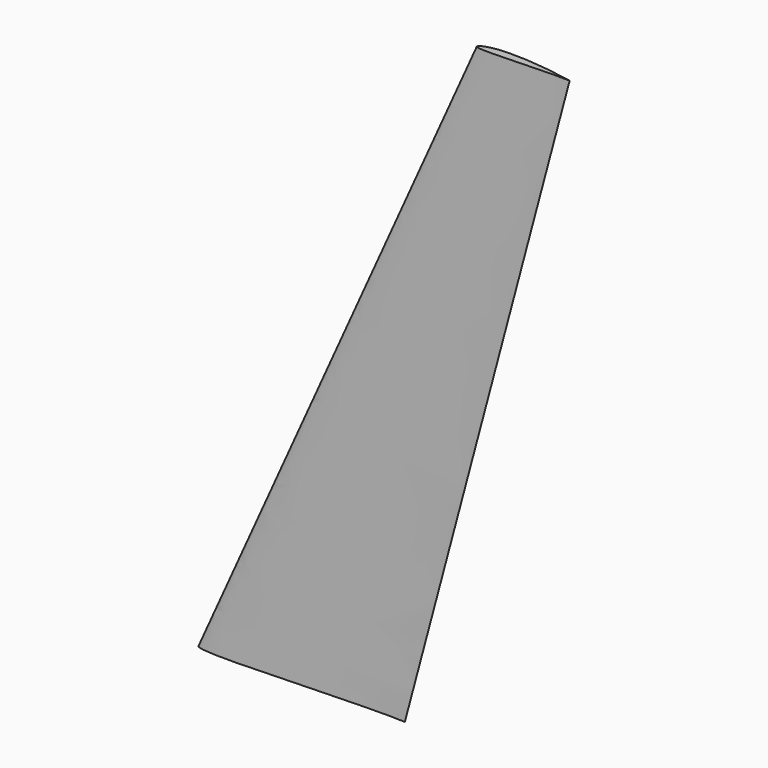
from build123d import *


with BuildPart() as part:
    # Sketch → AdditiveLoft section 0
    with BuildSketch(Plane.XY):
        with BuildLine():
            add(Edge.make_bspline(
                [(200, 0), (199.781214, 0.027081), (198.917946, 0.137734), (197.012547, 0.412206), (193.925274, 0.927958), (189.754376, 1.674878), (184.609962, 2.643631), (178.596476, 3.783489), (171.8068, 5.03161), (164.327059, 6.333634), (156.227593, 7.624717), (147.581186, 8.865302), (138.472671, 10.05632), (128.99884, 11.173364), (119.264561, 12.1967), (109.375682, 13.102329), (99.434946, 13.860057), (89.546564, 14.449104), (79.808449, 14.85141), (70.314939, 15.042807), (61.15414, 15.017291), (52.40922, 14.764509), (44.157229, 14.284557), (36.46888, 13.577278), (29.408634, 12.655396), (23.031454, 11.529549), (17.38147, 10.215811), (12.494328, 8.736793), (8.387963, 7.130169), (5.094837, 5.441482), (2.570683, 3.749252), (0.943763, 2.085824), (-0.111978, 0.606235), (0.141152, -1.064087), (1.951496, -1.849117), (4.357479, -2.595753), (7.934903, -3.166578), (12.465488, -3.618054), (17.999378, -3.908956), (24.460524, -4.062286), (31.799759, -4.081637), (39.941378, -3.984621), (48.801522, -3.787316), (58.282046, -3.510075), (68.27651, -3.171814), (78.668416, -2.792417), (89.33685, -2.379359), (100.157399, -1.952307), (111.004539, -1.520138), (121.753092, -1.098941), (132.276851, -0.6981), (142.452767, -0.335293), (152.155634, -0.024495), (161.262731, 0.21331), (169.644956, 0.370874), (177.201849, 0.450658), (183.766639, 0.451829), (189.407059, 0.379366), (193.574425, 0.302922), (197.351604, 0.127566), (198.284426, 0.130191), (200.218119, -0.026999), (200, 0)],
                knots=[0, 0, 0, 0, 0.661356, 2.610991, 5.774696, 10.050979, 15.322615, 21.479084, 28.41269, 36.032747, 44.255206, 53.016832, 62.236733, 71.812692, 81.634428, 91.599698, 101.60246, 111.541868, 121.315974, 130.83983, 140.025886, 148.795741, 157.082241, 164.819627, 171.953299, 178.436669, 184.23961, 189.344354, 193.744596, 197.442658, 200.446618, 202.777413, 204.476366, 205.651645, 207.276399, 209.859706, 213.439225, 218.011652, 223.560544, 230.04267, 237.404731, 245.575226, 254.469299, 263.991242, 274.028867, 284.469785, 295.187706, 306.058135, 316.956701, 327.75495, 338.328519, 348.55093, 358.301796, 367.452839, 375.878284, 383.462665, 390.092666, 395.669056, 400.106323, 403.334629, 405.299175, 405.958515, 405.958515, 405.958515, 405.958515], degree=3))
        make_face()
    # Sketch001 → AdditiveLoft section 1
    with BuildSketch(Plane(origin=(270, 0, 600), x_dir=(1, 0, 0), z_dir=(0, 0, 1))):
        with BuildLine():
            add(Edge.make_bspline(
                [(90, 0), (89.901546, 0.012187), (89.513076, 0.06198), (88.655646, 0.185492), (87.266373, 0.417581), (85.389469, 0.753695), (83.074483, 1.189634), (80.368414, 1.70257), (77.31306, 2.264224), (73.947177, 2.850135), (70.302417, 3.431122), (66.411534, 3.989386), (62.312702, 4.525344), (58.049478, 5.028014), (53.669053, 5.488515), (49.219057, 5.896048), (44.745726, 6.237026), (40.295954, 6.502097), (35.913802, 6.683135), (31.641722, 6.769263), (27.519363, 6.757781), (23.584149, 6.644029), (19.870753, 6.428051), (16.410996, 6.109775), (13.233885, 5.694928), (10.364154, 5.188297), (7.821662, 4.597115), (5.622447, 3.931557), (3.774584, 3.208576), (2.292677, 2.448667), (1.156807, 1.687163), (0.424693, 0.938621), (-0.05039, 0.272806), (0.063518, -0.478839), (0.878173, -0.832103), (1.960866, -1.168089), (3.570706, -1.42496), (5.60947, -1.628124), (8.09972, -1.75903), (11.007236, -1.828029), (14.309892, -1.836737), (17.97362, -1.793079), (21.960685, -1.704292), (26.226921, -1.579534), (30.72443, -1.427316), (35.400787, -1.256587), (40.201583, -1.070711), (45.070829, -0.878538), (49.952043, -0.684062), (54.788891, -0.494524), (59.524583, -0.314145), (64.103745, -0.150882), (68.470035, -0.011023), (72.568229, 0.09599), (76.34023, 0.166893), (79.740832, 0.202796), (82.694987, 0.203323), (85.233176, 0.170715), (87.108491, 0.136315), (88.808222, 0.057405), (89.227992, 0.058586), (90.098154, -0.012149), (90, 0)],
                knots=[0, 0, 0, 0, 0.29761, 1.174946, 2.598613, 4.522941, 6.895177, 9.665588, 12.785711, 16.214736, 19.914843, 23.857574, 28.00653, 32.315711, 36.735493, 41.219864, 45.721107, 50.19384, 54.592188, 58.877924, 63.011649, 66.958083, 70.687008, 74.168832, 77.378985, 80.296501, 82.907825, 85.204959, 87.185068, 88.849196, 90.200978, 91.249836, 92.014365, 92.54324, 93.27438, 94.436868, 96.047651, 98.105244, 100.602245, 103.519201, 106.832129, 110.508852, 114.511185, 118.796059, 123.31299, 128.011403, 132.834468, 137.726161, 142.630515, 147.489727, 152.247833, 156.847919, 161.235808, 165.353778, 169.145228, 172.558199, 175.5417, 178.051075, 180.047845, 181.500583, 182.384629, 182.681332, 182.681332, 182.681332, 182.681332], degree=3))
        make_face()
    loft()


solid = part.part
